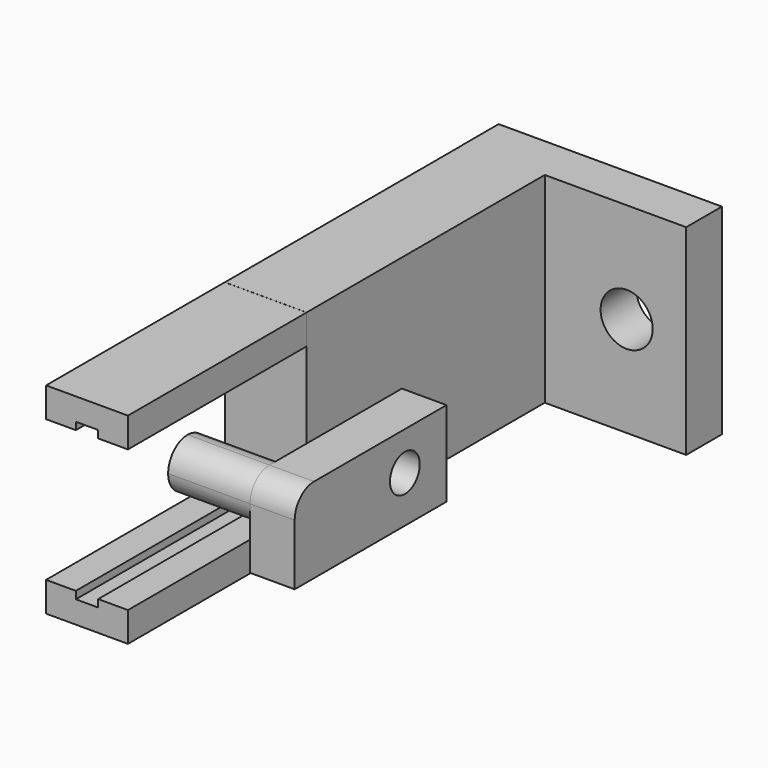
from build123d import *

# Parameters (mm, degrees)
F2_DEPTH  = 15
F3_W      = 5.4890122265
F3_H      = 13.4684094228
F4_DEPTH  = 20
F6_D      = 2.5
F7_DEPTH  = 5.5
F8_DEPTH  = 3
F9_D      = 2.5
F11_W     = 3
F11_H     = 13.4684094228
F12_DEPTH = 15
F15_D     = 3.5


with BuildPart() as f2:
    # F1 (on Front) → F2 (new body)
    with BuildSketch(Plane.XZ):
        Polygon((-0.75, 7.5), (-0.75, 8), (0.75, 8), (0.75, 7.5), (2.75, 7.5), (2.75, 9.5), (-2.75, 9.5), (-2.75, 7.5), align=None)
    extrude(amount=F2_DEPTH)


with BuildPart() as f2b:
    # F1 (on Front) → F2, piece 2 (new body)
    with BuildSketch(Plane.XZ):
        Polygon((0.75, -2), (0.75, -2.5), (-0.75, -2.5), (-0.75, -2), (-2.75, -2), (-2.75, -4), (2.75, -4), (2.75, -2), align=None)
    extrude(amount=F2_DEPTH)


with BuildPart() as f4:
    # F3 (on Front) → F4 (new body)
    with BuildSketch(Plane.XZ):
        with Locations((0.0054938868, 2.7699188795)):
            Rectangle(F3_W, F3_H)
    extrude(amount=-F4_DEPTH)

    # F6 (through all)
    with Locations(Plane.YZ.offset(2.75)):
        with Locations((4.5, -0.8417858319)):
            Hole(F6_D / 2)

    # F11 (on offset) → F12 (join)
    with BuildSketch(Plane.YZ.offset(-2.75)):
        with Locations((21.5, 2.7699188795)):
            Rectangle(F11_W, F11_H)
    extrude(amount=F12_DEPTH)

    # F15 (through all)
    with Locations(Plane(origin=(0, 23, 0), x_dir=(-1, 0, 0), z_dir=(0, 1, 0))):
        with Locations((-8.25, 2.7541235909)):
            Hole(F15_D / 2)


with BuildPart() as f7:
    # F5 (on offset) → F7 (new body)
    with BuildSketch(Plane.YZ.offset(2.75)):
        with BuildLine():
            ThreePointArc((-4.75, 0.125), (-3.125, -1.5), (-1.5, 0.125))
            ThreePointArc((-1.5, 0.125), (-1.9759514806, 1.2740485194), (-3.125, 1.75))
            ThreePointArc((-3.125, 1.75), (-4.2740485194, 1.2740485194), (-4.75, 0.125))
        make_face()
    extrude(amount=-F7_DEPTH)


with BuildPart() as f8:
    # F5 (on offset) → F8 (new body)
    with BuildSketch(Plane.YZ.offset(2.75)):
        with BuildLine():
            ThreePointArc((-4.75, 0.125), (-3.125, -1.5), (-1.5, 0.125))
            ThreePointArc((-1.5, 0.125), (-1.9759514806, 1.2740485194), (-3.125, 1.75))
            ThreePointArc((-3.125, 1.75), (-4.2740485194, 1.2740485194), (-4.75, 0.125))
        make_face()
        with BuildLine():
            ThreePointArc((-3.125, 1.75), (-1.9759514806, 1.2740485194), (-1.5, 0.125))
            ThreePointArc((-1.5, 0.125), (-3.125, -1.5), (-4.75, 0.125))
            Line((-4.75, 0.125), (-4.75, -3.9642858319))
            Line((-4.75, -3.9642858319), (8, -3.9642858319))
            Line((8, -3.9642858319), (8, 1.75))
            Line((8, 1.75), (-3.125, 1.75))
        make_face()
    extrude(amount=F8_DEPTH)

    # F9 (through all)
    with Locations(Plane(origin=(2.75, 0, 0), x_dir=(0, 1, 0), z_dir=(-1, 0, 0))):
        with Locations((4.5, 0.8417858319)):
            Hole(F9_D / 2)


solid = Compound([f2.part, f2b.part, f4.part, f7.part, f8.part])
